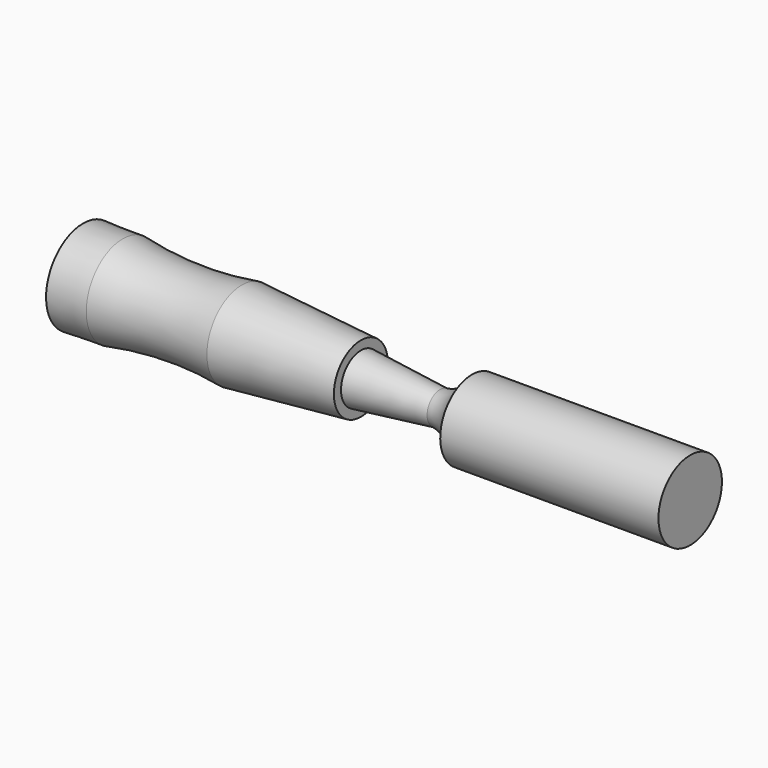
from build123d import *


with BuildPart() as f1:
    # F0 (on Front) → F1 (revolve)
    with BuildSketch(Plane.XZ):
        with BuildLine():
            ThreePointArc((2.075973, 12.827), (0.651222, 6.476095), (0, 0))
            Line((0, 0), (196.85, 0))
            Line((196.85, 0), (196.85, 12.7))
            Line((196.85, 12.7), (127, 12.7))
            ThreePointArc((127, 12.7), (122.894202, 7.556024), (116.764994, 5.157927))
            Line((116.764994, 5.157927), (91.44, 7.9375))
            Line((91.44, 7.9375), (91.44, 10.795))
            Line((91.44, 10.795), (53.34, 13.97))
            ThreePointArc((53.34, 13.97), (34.263452, 12.694616), (15.24, 14.605))
            Line((15.24, 14.605), (2.54, 14.816667))
            Line((2.54, 14.816667), (2.54, 12.827))
            Line((2.54, 12.827), (2.075973, 12.827))
        make_face()
    revolve(axis=Axis((98.425, 0, 0), (1, 0, 0)))


solid = f1.part
